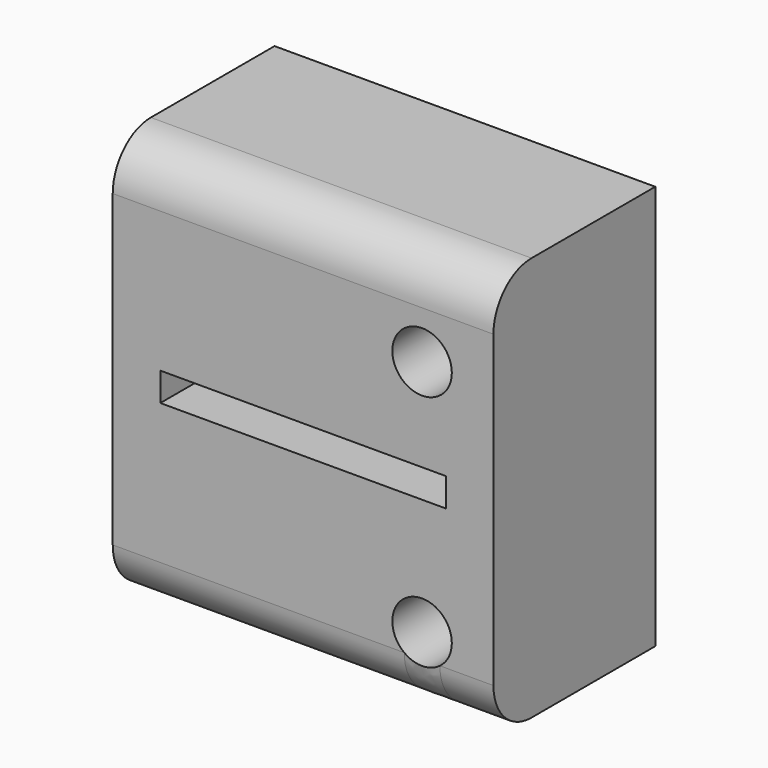
from build123d import *

# Parameters (mm, degrees)
BOX055_W          = 12
BOX055_H          = 4
BOX055_DEPTH      = 1.2
CYLINDER113_R     = 1.25
CYLINDER113_DEPTH = 10
CYLINDER112_R     = 1.25
CYLINDER112_DEPTH = 10
BOX048_W          = 16
BOX048_H          = 8.5
BOX048_DEPTH      = 17
FILLET024_R       = 2


with BuildPart() as cube034:
    # Box055 → Box055 (new body)
    with BuildSketch(Plane(origin=(325.5, 7.5, 9.4), x_dir=(1, 0, 0), z_dir=(0, 0, 1))):
        with Locations((6, 2)):
            Rectangle(BOX055_W, BOX055_H)
    extrude(amount=BOX055_DEPTH)


with BuildPart() as cylinder113:
    # Cylinder113 → Cylinder113 (new body)
    with BuildSketch(Plane(origin=(320, 26, 0), x_dir=(1, 0, 0), z_dir=(0, -1, 0))):
        Circle(CYLINDER113_R)
    extrude(amount=CYLINDER113_DEPTH)


with BuildPart() as fusion098:
    # Cylinder112 → Cylinder112 (new body)
    with BuildSketch(Plane(origin=(320, 26, 10), x_dir=(1, 0, 0), z_dir=(0, -1, 0))):
        Circle(CYLINDER112_R)
    extrude(amount=CYLINDER112_DEPTH)

    # Fusion098: union Cylinder113
    add(cylinder113.part)


with BuildPart() as fusion098_1:
    # Fusion098 placement: moved
    add(fusion098.part.moved(Location((16.5, -9.5, 4.5))))


with BuildPart() as cut062:
    # Box048 → Box048 (new body)
    with BuildSketch(Plane(origin=(323.5, 7.5, 1.5), x_dir=(1, 0, 0), z_dir=(0, 0, 1))):
        with Locations((8, 4.25)):
            Rectangle(BOX048_W, BOX048_H)
    extrude(amount=BOX048_DEPTH)

    # Cut059: cut Fusion098
    add(fusion098_1.part, mode=Mode.SUBTRACT)

    # Fillet024
    fillet024_edges = [cut062.edges().sort_by_distance(p)[0] for p in [
        (331.5, 7.5, 1.5),
        (331.5, 7.5, 18.5),
    ]]
    fillet(fillet024_edges, radius=FILLET024_R)

    # Cut062: cut Cube034
    add(cube034.part, mode=Mode.SUBTRACT)


with BuildPart() as cut062_1:
    # Cut062 placement: moved
    add(cut062.part.moved(Location((0, -16, 0))))


solid = cut062_1.part
